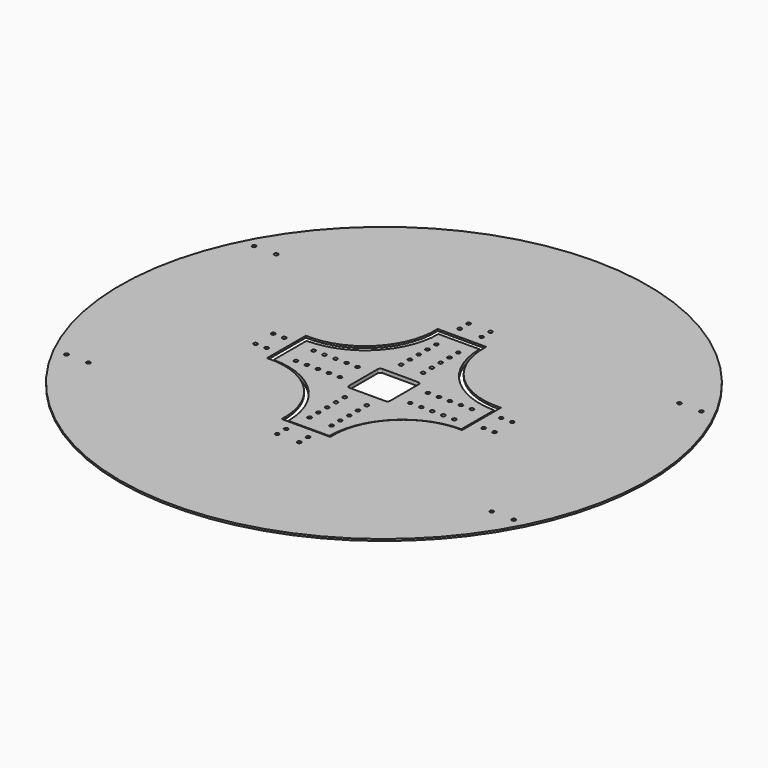
from build123d import *

# Parameters (mm, degrees)
F1_DEPTH = 6.35
F2_D     = 6.5278
F3_R     = 5.08
F5_DEPTH = 3.175
F6_D     = 6.5278
F8_D     = 6.5278


with BuildPart() as f1:
    # F0 (on Top) → F1 (new body)
    with BuildSketch(Plane.XY):
        Polygon((-35.56, 35.56), (0, 35.56), (0, 60.96), (0, 162.56), (-35.56, 162.56), align=None)
        Polygon((0, 35.56), (35.56, 35.56), (35.56, 162.56), (0, 162.56), (0, 60.96), align=None)
        with BuildLine():
            Line((-162.56, 35.56), (-35.56, 35.56))
            Line((-35.56, 35.56), (-35.56, 162.56))
            ThreePointArc((-35.56, 162.56), (-72.7574387893, 72.7574387893), (-162.56, 35.56))
        make_face()
        with BuildLine():
            Line((35.56, 162.56), (35.56, 35.56))
            Line((35.56, 35.56), (162.56, 35.56))
            ThreePointArc((162.56, 35.56), (72.7574387893, 72.7574387893), (35.56, 162.56))
        make_face()
        Polygon((-60.96, 0), (-35.56, 0), (-35.56, 35.56), (-162.56, 35.56), (-162.56, 0), align=None)
        Polygon((-162.56, -35.56), (-35.56, -35.56), (-35.56, 0), (-60.96, 0), (-162.56, 0), align=None)
        Polygon((35.56, 35.56), (35.56, 0), (60.96, 0), (162.56, 0), (162.56, 35.56), align=None)
        Polygon((35.56, 0), (35.56, -35.56), (162.56, -35.56), (162.56, 0), (60.96, 0), align=None)
        with BuildLine():
            Line((162.56, -35.56), (35.56, -35.56))
            Line((35.56, -35.56), (35.56, -162.56))
            ThreePointArc((35.56, -162.56), (72.7574387893, -72.7574387893), (162.56, -35.56))
        make_face()
        Polygon((35.56, -162.56), (35.56, -35.56), (0, -35.56), (0, -60.96), (0, -162.56), align=None)
        Polygon((0, -60.96), (0, -35.56), (-35.56, -35.56), (-35.56, -162.56), (0, -162.56), align=None)
        with BuildLine():
            Line((-35.56, -162.56), (-35.56, -35.56))
            Line((-35.56, -35.56), (-162.56, -35.56))
            ThreePointArc((-162.56, -35.56), (-72.7574387893, -72.7574387893), (-35.56, -162.56))
        make_face()
    extrude(amount=F1_DEPTH)

    # F2 (through all)
    with Locations(Plane(origin=(0, 0, 0), x_dir=(1, 0, 0), z_dir=(0, 0, -1))):
        with Locations((-19.05, -60.96), (19.05, -60.96), (19.05, -80.01), (19.05, -99.06), (19.05, -118.11), (19.05, -137.16), (-19.05, -80.01), (-19.05, -99.06), (-19.05, -118.11), (-19.05, -137.16), (60.96, -19.05), (60.96, 19.05), (80.01, -19.05), (80.01, 19.05), (99.06, -19.05), (99.06, 19.05), (118.11, -19.05), (118.11, 19.05), (137.16, -19.05), (137.16, 19.05), (19.05, 60.96), (-19.05, 60.96), (-19.05, 80.01), (19.05, 80.01), (-19.05, 99.06), (-19.05, 118.11), (19.05, 99.06), (19.05, 118.11), (-19.05, 137.16), (19.05, 137.16), (-60.96, -19.05), (-60.96, 19.05), (-80.01, -19.05), (-80.01, 19.05), (-99.06, -19.05), (-99.06, 19.05), (-118.11, -19.05), (-118.11, 19.05), (-137.16, 19.05), (-137.16, -19.05)):
            Hole(F2_D / 2)

    # F3
    f3_edges = [f1.edges().sort_by_distance(p)[0] for p in [
        (-35.56, -35.56, 3.175),
        (-35.56, 35.56, 3.175),
        (35.56, 35.56, 3.175),
        (35.56, -35.56, 3.175),
    ]]
    fillet(f3_edges, radius=F3_R)


with BuildPart() as f5:
    # F4 (on face) → F5 (new body)
    with BuildSketch(Plane.XY.offset(6.35)):
        with BuildLine():
            ThreePointArc((457.2, 0), (323.2892203585, 323.2892203585), (0, 457.2))
            ThreePointArc((0, 457.2), (-323.2892203585, -323.2892203585), (457.2, 0))
        make_face()
        with BuildLine():
            Line((19.05, -168.91), (0, -168.91))
            Line((0, -168.91), (-19.05, -168.91))
            Line((-19.05, -168.91), (-42.0772211476, -168.91))
            ThreePointArc((-42.0772211476, -168.91), (-77.2475668498, -77.2475668498), (-168.91, -42.0772211476))
            Line((-168.91, -42.0772211476), (-168.91, -19.05))
            Line((-168.91, -19.05), (-168.91, 0))
            Line((-168.91, 0), (-168.91, 19.05))
            Line((-168.91, 19.05), (-168.91, 42.0772211476))
            ThreePointArc((-168.91, 42.0772211476), (-77.2475668498, 77.2475668498), (-42.0772211476, 168.91))
            Line((-42.0772211476, 168.91), (-19.05, 168.91))
            Line((-19.05, 168.91), (0, 168.91))
            Line((0, 168.91), (19.05, 168.91))
            Line((19.05, 168.91), (42.0772211476, 168.91))
            ThreePointArc((42.0772211476, 168.91), (77.2475668498, 77.2475668498), (168.91, 42.0772211476))
            Line((168.91, 42.0772211476), (168.91, 19.05))
            Line((168.91, 19.05), (168.91, 0))
            Line((168.91, 0), (168.91, -19.05))
            Line((168.91, -19.05), (168.91, -42.0772211476))
            ThreePointArc((168.91, -42.0772211476), (77.2475668498, -77.2475668498), (42.0772211476, -168.91))
            Line((42.0772211476, -168.91), (19.05, -168.91))
        make_face(mode=Mode.SUBTRACT)
    extrude(amount=F5_DEPTH)

    # F6 (through all)
    with Locations(Plane(origin=(0, 0, 6.35), x_dir=(1, 0, 0), z_dir=(0, 0, -1))):
        with Locations((-19.05, -187.96), (-19.05, -207.01), (19.05, -187.96), (19.05, -207.01), (187.96, -19.05), (207.01, -19.05), (187.96, 19.05), (207.01, 19.05), (-19.05, 187.96), (19.05, 187.96), (-19.05, 207.01), (19.05, 207.01), (-187.96, 19.05), (-187.96, -19.05), (-207.01, 19.05), (-207.01, -19.05)):
            Hole(F6_D / 2)

    # F8 (through all)
    with Locations(Plane.XY.offset(9.525)):
        with Locations((-387.35, 203.2), (-349.25, 203.2), (387.35, 203.2), (349.25, 203.2), (-387.35, -203.2), (-349.25, -203.2), (349.25, -203.2), (387.35, -203.2)):
            Hole(F8_D / 2)


solid = Compound([f1.part, f5.part])
